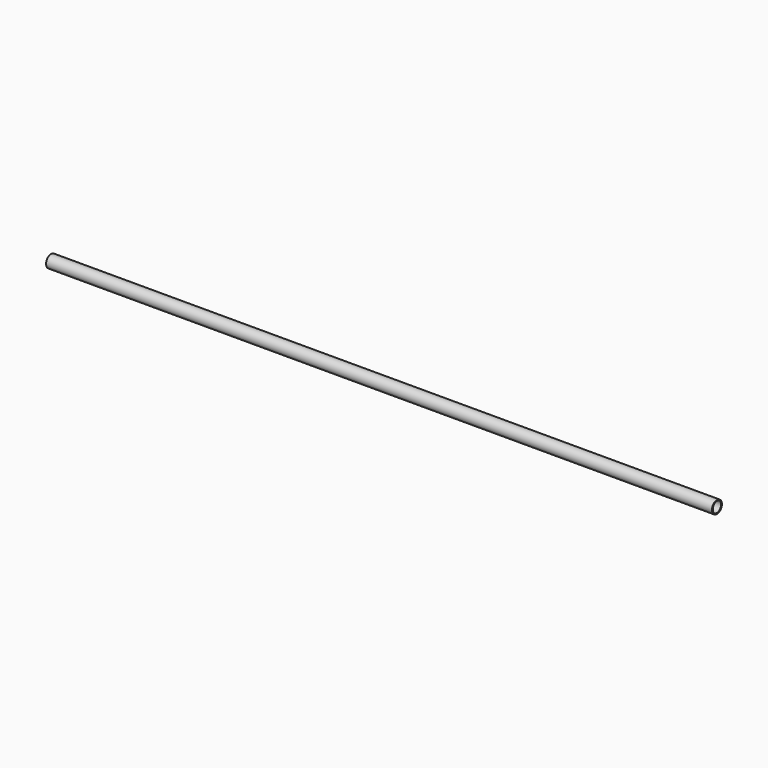
from build123d import *

# Parameters (mm, degrees)
F0_R     = 24.2
F1_DEPTH = 2584.32
F2_T     = -4


with BuildPart() as f1:
    # F0 (on Right) → F1 (new body)
    with BuildSketch(Plane.YZ):
        Circle(F0_R)
    extrude(amount=F1_DEPTH)

    # F2
    f2_openings = [f1.faces().sort_by_distance(p)[0] for p in [
        (2584.32, 0, 0),
        (0, 0, 0),
    ]]
    offset(amount=F2_T, openings=f2_openings)


solid = f1.part
